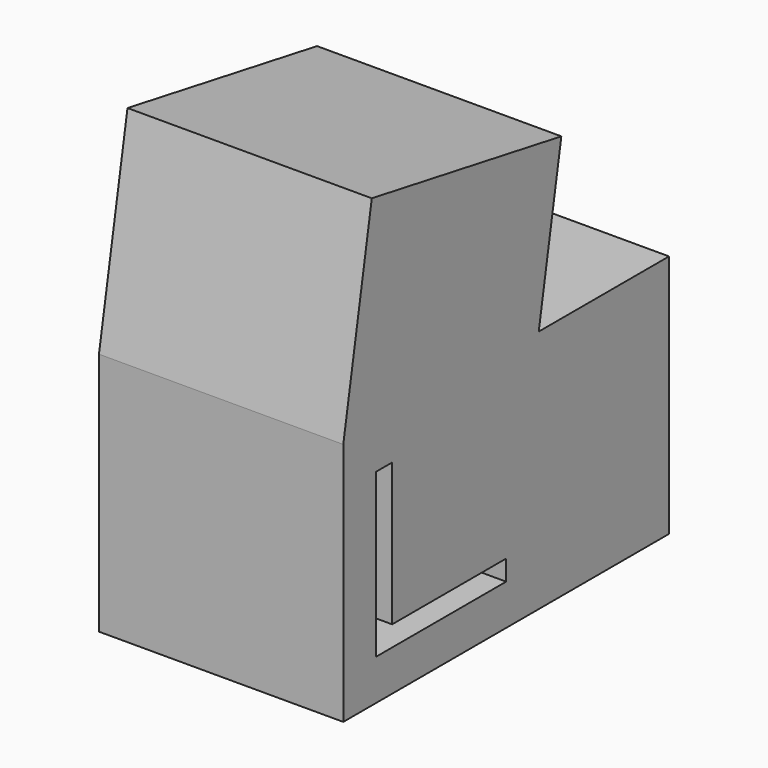
from build123d import *

# Parameters (mm, degrees)
F0_W     = 19.05
F0_H     = 19.05
F1_DEPTH = 19.05
F3_DEPTH = 12.7
F5_DEPTH = 19.05
F6_DEPTH = 12.7


with BuildPart() as f1:
    # F0 (on Top) → F1 (new body)
    with BuildSketch(Plane.XY):
        with Locations((9.525, 9.525)):
            Rectangle(F0_W, F0_H)
    extrude(amount=F1_DEPTH)

    # F2 (on face) → F3 (cut)
    with BuildSketch(Plane.YZ.offset(19.05)):
        Polygon((4.7625, 15.875), (3.175, 15.875), (3.175, 3.175), (15.875, 3.175), (15.875, 4.7625), (4.7625, 4.7625), align=None)
    extrude(amount=-F3_DEPTH, mode=Mode.SUBTRACT)

    # F4 (on face) → F5 (join)
    with BuildSketch(Plane.YZ.offset(19.05)):
        Polygon((2.7797596434, 34.8148003284), (0, 19.05), (19.05, 19.05), (21.2553318564, 31.5570584633), align=None)
    extrude(amount=-F5_DEPTH)

    # F6 (add): a face of the model
    f6_faces = [f1.faces().sort_by_distance(p)[0] for p in [
        (9.525, 19.05, 9.525),
    ]]
    extrude(f6_faces, amount=F6_DEPTH)


solid = f1.part
